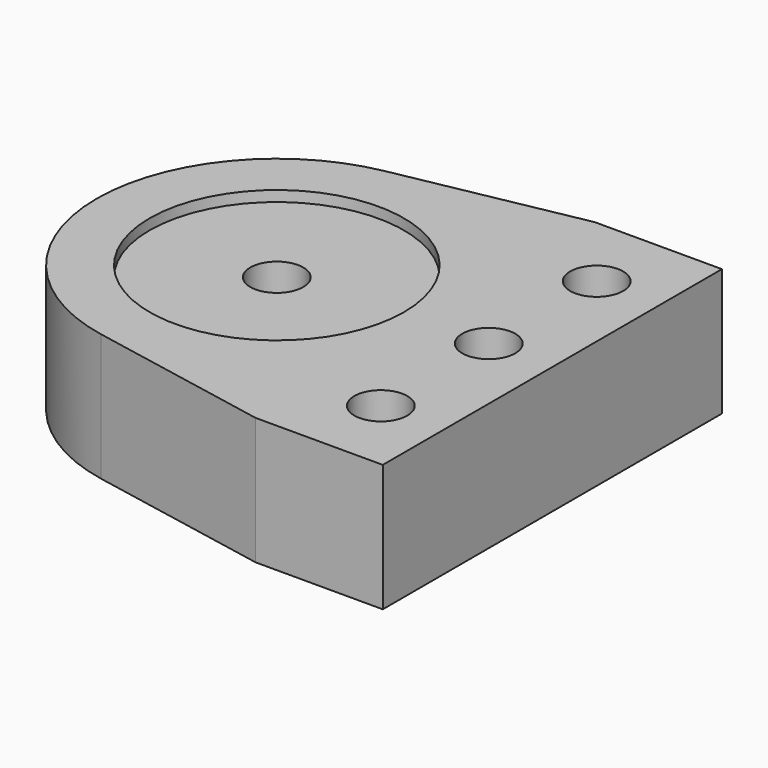
from build123d import *

# Parameters (mm, degrees)
F0_W     = 12
F0_H     = 40
F0_R     = 2.5
F0_R_2   = 12
F1_DEPTH = 12
F2_DEPTH = 11


with BuildPart() as f1:
    # F0 (on Top) → F1 (new body)
    with BuildSketch(Plane.XY):
        with Locations((14, 0)):
            Rectangle(F0_W, F0_H)
        with Locations((14, -12.73)):
            Circle(F0_R, mode=Mode.SUBTRACT)
        with Locations((14, 0)):
            Circle(F0_R, mode=Mode.SUBTRACT)
        with Locations((14, 12.73)):
            Circle(F0_R, mode=Mode.SUBTRACT)
        with BuildLine():
            Line((-9.206848, -16.694793), (8, -20))
            Line((8, -20), (8, 20))
            Line((8, 20), (-9.206848, 16.694793))
            ThreePointArc((-9.206848, 16.694793), (-23, 0), (-9.206848, -16.694793))
        make_face()
        with Locations((-6, 0)):
            Circle(F0_R_2, mode=Mode.SUBTRACT)
    extrude(amount=F1_DEPTH)

    # F0 (on Top) → F2 (join)
    with BuildSketch(Plane.XY):
        with Locations((-6, 0)):
            Circle(F0_R_2)
        with Locations((-6, 0)):
            Circle(F0_R, mode=Mode.SUBTRACT)
    extrude(amount=F2_DEPTH)


solid = f1.part
